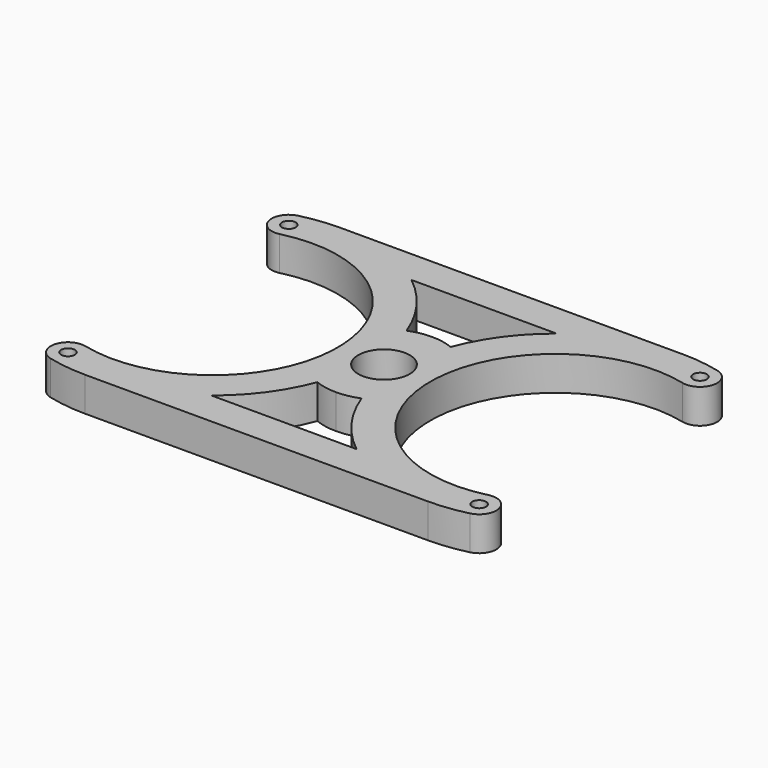
from build123d import *

# Parameters (mm, degrees)
F0_R     = 2
F1_DEPTH = 10


with BuildPart() as f1:
    # F0 (on Top) → F1 (new body)
    with BuildSketch(Plane.XY):
        with BuildLine():
            ThreePointArc((58.795181, -35.424494), (13.5, 0), (58.795181, 35.424494))
            ThreePointArc((58.795181, 35.424494), (64.85267, 39.072345), (61.204819, 45.129835))
            ThreePointArc((61.204819, 45.129835), (55.644141, 46.156188), (50, 46.5))
            Line((50, 46.5), (0, 46.5))
            Line((0, 46.5), (-50, 46.5))
            ThreePointArc((-50, 46.5), (-55.644141, 46.156188), (-61.204819, 45.129835))
            ThreePointArc((-61.204819, 45.129835), (-64.85267, 39.072345), (-58.795181, 35.424494))
            ThreePointArc((-58.795181, 35.424494), (-13.5, 0), (-58.795181, -35.424494))
            ThreePointArc((-58.795181, -35.424494), (-64.85267, -39.072345), (-61.204819, -45.129835))
            ThreePointArc((-61.204819, -45.129835), (-55.644141, -46.156188), (-50, -46.5))
            Line((-50, -46.5), (0, -46.5))
            Line((0, -46.5), (50, -46.5))
            ThreePointArc((50, -46.5), (55.644141, -46.156188), (61.204819, -45.129835))
            ThreePointArc((61.204819, -45.129835), (64.85267, -39.072345), (58.795181, -35.424494))
        make_face()
        with Locations((-60, -40.277165)):
            Circle(F0_R, mode=Mode.SUBTRACT)
        with BuildLine():
            ThreePointArc((0, -17.5), (3.278022, -17.190247), (6.44, -16.271951))
            ThreePointArc((6.44, -16.271951), (12.428234, -27.397306), (21.190279, -36.5))
            Line((21.190279, -36.5), (0, -36.5))
            Line((0, -36.5), (-21.190279, -36.5))
            ThreePointArc((-21.190279, -36.5), (-12.428234, -27.397306), (-6.44, -16.271951))
            ThreePointArc((-6.44, -16.271951), (-3.278022, -17.190247), (0, -17.5))
        make_face(mode=Mode.SUBTRACT)
        with Locations((60, -40.277165)):
            Circle(F0_R, mode=Mode.SUBTRACT)
        with Locations((-60, 40.277165)):
            Circle(F0_R, mode=Mode.SUBTRACT)
        with BuildLine():
            ThreePointArc((0, 7.5), (7.5, 0), (0, -7.5))
            ThreePointArc((0, -7.5), (-7.5, 0), (0, 7.5))
        make_face(mode=Mode.SUBTRACT)
        with BuildLine():
            ThreePointArc((21.190279, 36.5), (12.428234, 27.397306), (6.44, 16.271951))
            ThreePointArc((6.44, 16.271951), (3.278022, 17.190247), (0, 17.5))
            ThreePointArc((0, 17.5), (-3.278022, 17.190247), (-6.44, 16.271951))
            ThreePointArc((-6.44, 16.271951), (-12.428234, 27.397306), (-21.190279, 36.5))
            Line((-21.190279, 36.5), (0, 36.5))
            Line((0, 36.5), (21.190279, 36.5))
        make_face(mode=Mode.SUBTRACT)
        with Locations((60, 40.277165)):
            Circle(F0_R, mode=Mode.SUBTRACT)
    extrude(amount=F1_DEPTH)


solid = f1.part
